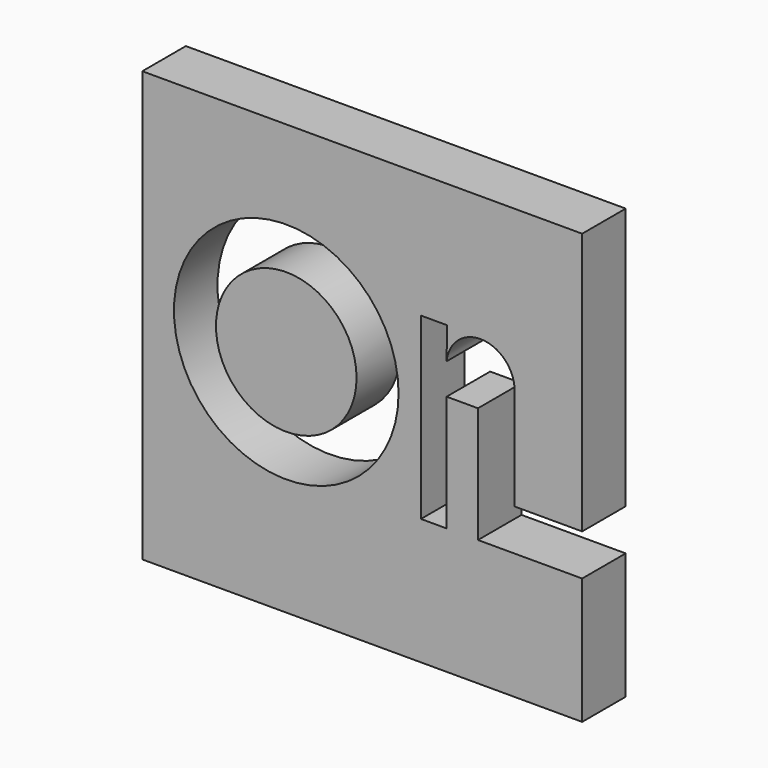
from build123d import *

# Parameters (mm, degrees)
F0_R     = 39.831816
F1_DEPTH = 9.652
F0_R_2   = 24.934761
F2_DEPTH = 9.652


with BuildPart() as f1:
    # F0 (on Front) → F1 (new body, symmetric)
    with BuildSketch(Plane.XZ):
        with BuildLine():
            Line((78.006566, -16.745223), (78.006566, 76.221748))
            Line((78.006566, 76.221748), (-78.006566, 76.221748))
            Line((-78.006566, 76.221748), (-78.006566, -76.221748))
            Line((-78.006566, -76.221748), (78.006566, -76.221748))
            Line((78.006566, -76.221748), (78.006566, -31.444501))
            Line((78.006566, -31.444501), (41.046672, -31.444501))
            Line((41.046672, -31.444501), (41.046672, 9.699533))
            Line((41.046672, 9.699533), (29.919419, 9.699533))
            Line((29.919419, 9.699533), (29.919419, -31.444501))
            Line((29.919419, -31.444501), (20.823335, -31.444501))
            Line((20.823335, -31.444501), (20.823335, 32.069732))
            Line((20.823335, 32.069732), (30.093759, 32.069732))
            Line((30.093759, 32.069732), (29.919419, 20.737687))
            ThreePointArc((29.919419, 20.737687), (41.948818, 31.60846), (53.978216, 20.737687))
            Line((53.978216, 20.737687), (53.978216, -16.745223))
            Line((53.978216, -16.745223), (78.006566, -16.745223))
        make_face()
        with Locations((-26.945584, 5.166717)):
            Circle(F0_R, mode=Mode.SUBTRACT)
    extrude(amount=F1_DEPTH, both=True)


with BuildPart() as f2:
    # F0 (on Front) → F2 (new body, symmetric)
    with BuildSketch(Plane.XZ):
        with Locations((-26.945584, 5.166717)):
            Circle(F0_R_2)
    extrude(amount=F2_DEPTH, both=True)


solid = Compound([f1.part, f2.part])
